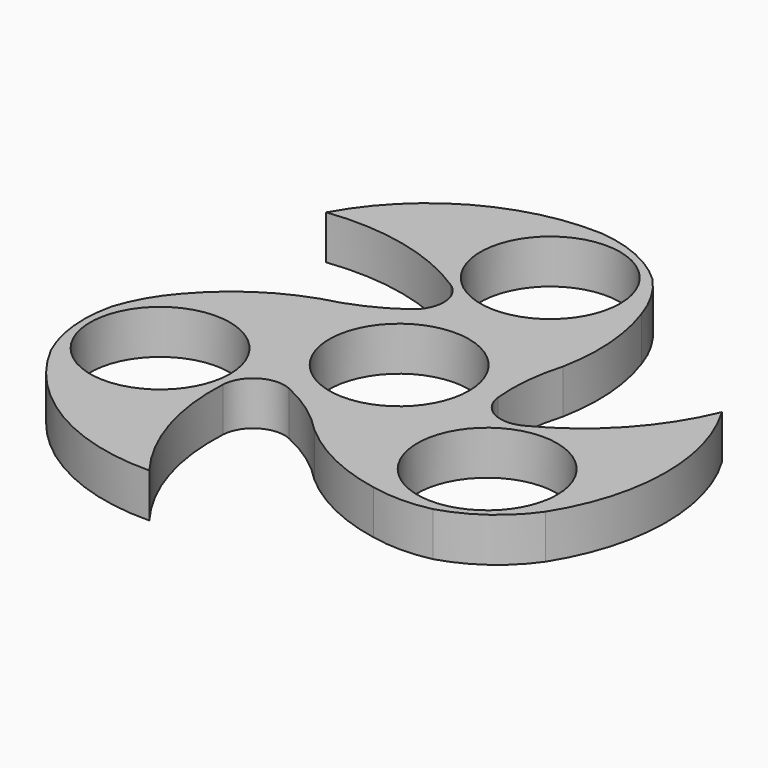
from build123d import *

# Parameters (mm, degrees)
F0_R     = 11.1
F1_DEPTH = 7
F2_R     = 5
F3_R     = 5
F4_R     = 5


with BuildPart() as f1:
    # F0 (on Top) → F1 (new body)
    with BuildSketch(Plane.XY):
        with BuildLine():
            ThreePointArc((10.187081, 37.585558), (4.282363, 41.525705), (-2.589889, 43.304074))
            ThreePointArc((-2.589889, 43.304074), (-20.0319, 39.095625), (-32.678202, 26.367472))
            ThreePointArc((-32.678202, 26.367472), (-17.005905, 24.893365), (-3.464991, 16.866068))
            ThreePointArc((-3.464991, 16.866068), (-10.431292, 11.154526), (-18.783352, 7.779))
            ThreePointArc((-18.783352, 7.779), (-26.523062, 3.92607), (-32.973144, -1.831066))
            ThreePointArc((-32.973144, -1.831066), (-35.741861, -5.652046), (-37.643589, -9.970508))
            ThreePointArc((-37.643589, -9.970508), (-38.103497, -17.054217), (-36.207484, -23.894947))
            ThreePointArc((-36.207484, -23.894947), (-23.841854, -36.895947), (-6.4958, -41.483889))
            ThreePointArc((-6.4958, -41.483889), (-13.055333, -27.174228), (-12.873948, -11.433804))
            ThreePointArc((-12.873948, -11.433804), (-4.444456, -14.611027), (2.654864, -20.15636))
            ThreePointArc((2.654864, -20.15636), (9.861454, -24.932681), (18.072322, -27.640047))
            ThreePointArc((18.072322, -27.640047), (22.765746, -28.127337), (27.456508, -27.61505))
            ThreePointArc((27.456508, -27.61505), (33.821134, -24.471488), (38.797373, -19.409127))
            ThreePointArc((38.797373, -19.409127), (43.873754, -2.199678), (39.174002, 15.116417))
            ThreePointArc((39.174002, 15.116417), (30.061239, 2.280864), (16.338939, -5.432264))
            ThreePointArc((16.338939, -5.432264), (14.875749, 3.456501), (16.128488, 12.37736))
            ThreePointArc((16.128488, 12.37736), (16.661608, 21.00661), (14.900822, 29.471114))
            ThreePointArc((14.900822, 29.471114), (12.976115, 33.779383), (10.187081, 37.585558))
        make_face()
        with Locations((-25.980762, -15)):
            Circle(F0_R, mode=Mode.SUBTRACT)
        Circle(F0_R, mode=Mode.SUBTRACT)
        with Locations((25.980762, -15)):
            Circle(F0_R, mode=Mode.SUBTRACT)
        with Locations((0, 30)):
            Circle(F0_R, mode=Mode.SUBTRACT)
    extrude(amount=F1_DEPTH)

    # F2
    f2_edges = [f1.edges().sort_by_distance(p)[0] for p in [
        (16.338939, -5.432264, 3.5),
    ]]
    fillet(f2_edges, radius=F2_R)

    # F3
    f3_edges = [f1.edges().sort_by_distance(p)[0] for p in [
        (-3.464991, 16.866068, 3.5),
    ]]
    fillet(f3_edges, radius=F3_R)

    # F4
    f4_edges = [f1.edges().sort_by_distance(p)[0] for p in [
        (-12.873948, -11.433804, 3.5),
    ]]
    fillet(f4_edges, radius=F4_R)


solid = f1.part
